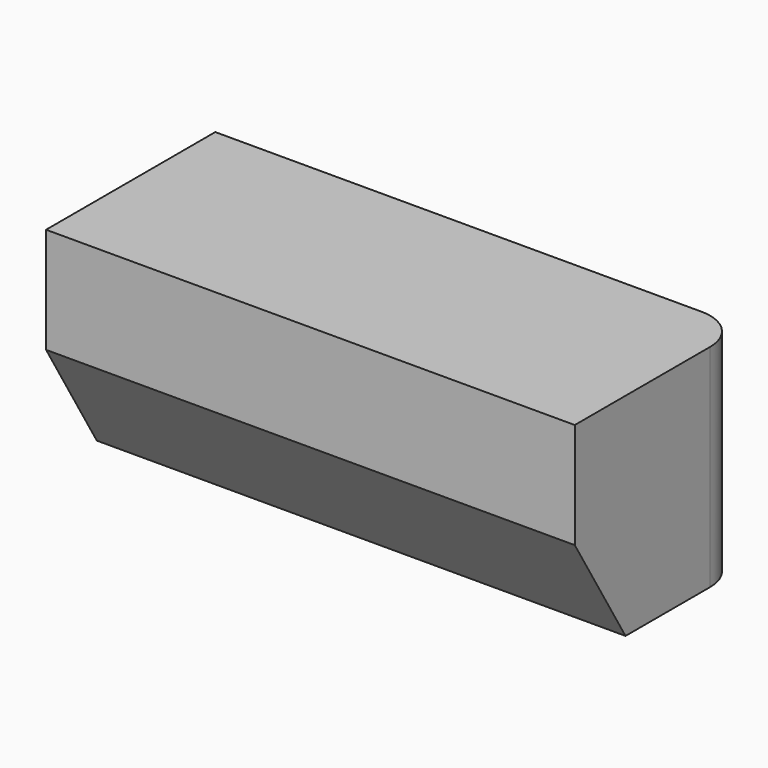
from build123d import *

# Parameters (mm, degrees)
F0_W     = 63.5
F0_H     = 25.4
F1_DEPTH = 25.4
F2_R     = 5.08
F3_SIZE2 = 12.7
F3_SIZE  = 7.62


with BuildPart() as f1:
    # F0 (on Front) → F1 (new body)
    with BuildSketch(Plane.XZ):
        Rectangle(F0_W, F0_H)
    extrude(amount=F1_DEPTH)

    # F2
    f2_edges = [f1.edges().sort_by_distance(p)[0] for p in [
        (31.75, 0, 0),
    ]]
    fillet(f2_edges, radius=F2_R)

    # F3
    f3_edges = [f1.edges().sort_by_distance(p)[0] for p in [
        (0, -25.4, -12.7),
    ]]
    chamfer(f3_edges, length=F3_SIZE, length2=F3_SIZE2)


solid = f1.part
